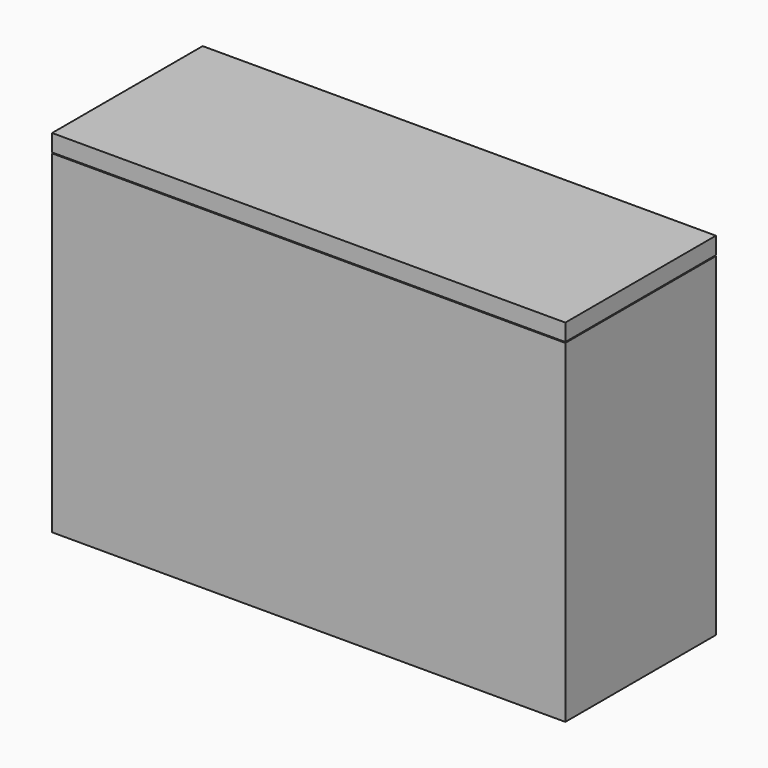
from build123d import *

# Parameters (mm, degrees)
F0_W     = 60
F0_H     = 22
F1_DEPTH = 39
F2_T     = -2
F4_W     = 60
F4_H     = 22
F4_W_2   = 56
F4_H_2   = 18
F4_W_3   = 55.6
F4_H_3   = 17.6
F5_DEPTH = 2
F6_DEPTH = 2


with BuildPart() as f1:
    # F0 (on Top) → F1 (new body)
    with BuildSketch(Plane.XY):
        Rectangle(F0_W, F0_H)
    extrude(amount=F1_DEPTH)

    # F2
    f2_openings = [f1.faces().sort_by_distance(p)[0] for p in [
        (0, 0, 39),
    ]]
    offset(amount=F2_T, openings=f2_openings)


with BuildPart() as f5:
    # F4 (on offset) → F5 (new body)
    with BuildSketch(Plane.XY.offset(39.1)):
        Rectangle(F4_W, F4_H)
        Rectangle(F4_W_2, F4_H_2, mode=Mode.SUBTRACT)
        Rectangle(F4_W_2, F4_H_2)
        Rectangle(F4_W_3, F4_H_3, mode=Mode.SUBTRACT)
        Rectangle(F4_W_3, F4_H_3)
    extrude(amount=F5_DEPTH)

    # F4 (on offset) → F6 (join)
    with BuildSketch(Plane.XY.offset(39.1)):
        Rectangle(F4_W_3, F4_H_3)
    extrude(amount=-F6_DEPTH)


solid = Compound([f1.part, f5.part])
